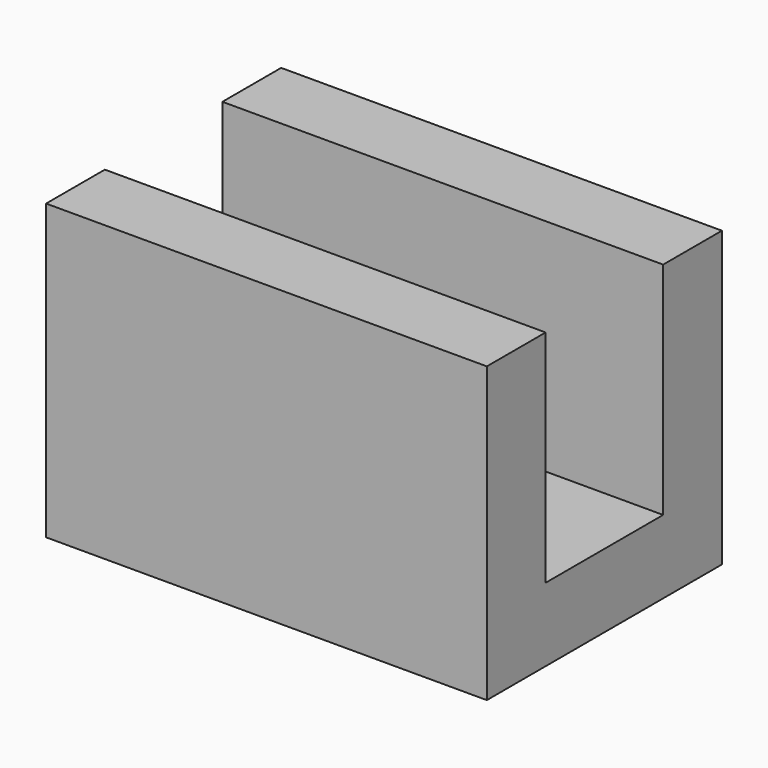
from build123d import *

# Parameters (mm, degrees)
F0_W     = 101.6
F0_H     = 101.6
F1_DEPTH = 152.4
F2_W     = 50.8
F2_H     = 76.2
F3_DEPTH = 152.401


with BuildPart() as f1:
    # F0 (on Right) → F1 (new body)
    with BuildSketch(Plane.YZ):
        with Locations((50.8, 50.8)):
            Rectangle(F0_W, F0_H)
    extrude(amount=-F1_DEPTH)

    # F2 (on face) → F3 (cut, through all)
    with BuildSketch(Plane.YZ):
        with Locations((50.8, 63.5)):
            Rectangle(F2_W, F2_H)
    extrude(amount=-F3_DEPTH, mode=Mode.SUBTRACT)


solid = f1.part
